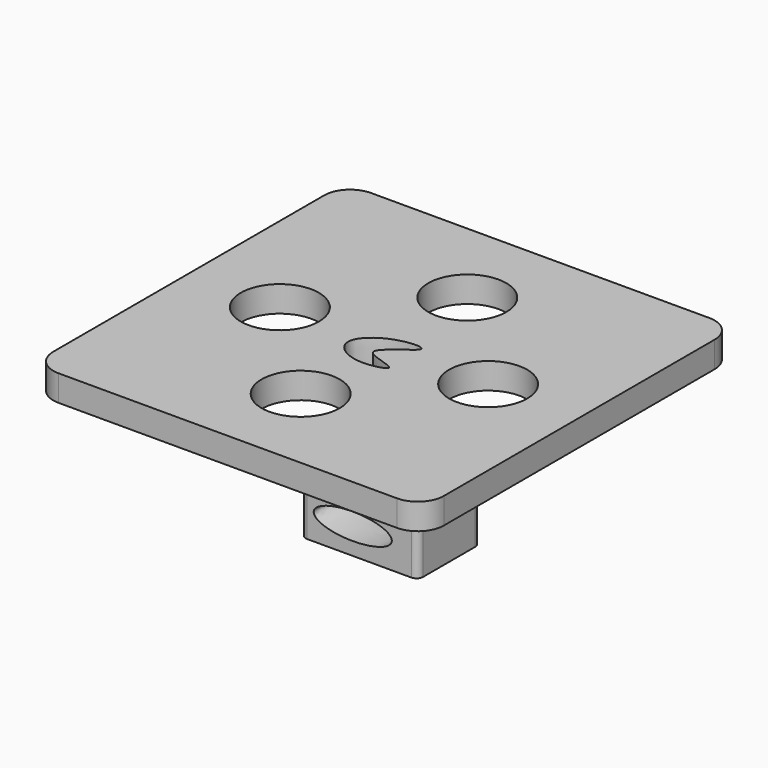
from build123d import *

# Parameters (mm, degrees)
F1_DEPTH       = 76.2
F3_DEPTH       = 76.2
F6_ANGLE_START = 45
F6_ANGLE       = 45
F8_DEPTH       = 63.5
F9_R           = 6.35
F11_DEPTH      = 25.4
F12_R          = 38.1
F13_DEPTH      = 25.4


with BuildPart() as f1:
    # F0 (on Front) → F1 (new body)
    with BuildSketch(Plane.XZ):
        Polygon((0, 76.2), (0, 0), (88.8306446588, 0), (101.6, 0), (114.3, 0), (114.3, 63.5), (101.6, 63.5), (101.6, 76.2), align=None)
    extrude(amount=F1_DEPTH)

    # F2 (on face) → F3 (cut, through all)
    with BuildSketch(Plane.XZ.offset(76.2)):
        with BuildLine():
            add(Edge.make_bspline(
                [(88.9, 25.4), (88.9, 47.3970452561), (31.75, 36.3985226281), (-25.4, 25.4), (31.75, 14.4014773719), (88.9, 3.4029547439), (88.9, 25.4)],
                knots=[0, 0, 0, 2.0943951024, 2.0943951024, 4.1887902048, 4.1887902048, 6.2831853072, 6.2831853072, 6.2831853072], degree=2, weights=[1, 0.5, 1, 0.5, 1, 0.5, 1]))
        make_face()
    extrude(amount=-F3_DEPTH, mode=Mode.SUBTRACT)

    # F5 (on offset) → F6 (revolve, cut)
    with BuildSketch(Plane.XZ.offset(38.1), mode=Mode.PRIVATE) as f6_sk:
        Polygon((6.35, 76.2), (6.35, 70.9394877579), (10.0697438789, 67.2197438789), (15.3302561211, 67.2197438789), (19.05, 70.9394877579), (19.05, 76.2), (15.3302561211, 79.9197438789), (10.0697438789, 79.9197438789), align=None)
    revolve(f6_sk.sketch.rotate(Axis((38.1, -38.1, 38.1), (0, 0, -1)), F6_ANGLE_START), axis=Axis((38.1, -38.1, 38.1), (0, 0, -1)), revolution_arc=F6_ANGLE, mode=Mode.SUBTRACT)

    # F7 (on face) → F8 (join)
    with BuildSketch(Plane.XY.offset(76.2)):
        with BuildLine():
            add(Edge.make_bspline(
                [(25.4, -50.8), (25.8926511047, -59.9529854849), (46.7650224338, -75.9649959371), (94.4797043393, -62.4150130403), (27.4951811657, -54.5063585346), (95.1955241162, -20.3703637934), (45.668122068, -21.5563633126), (24.8759871302, -41.0643429702), (25.4, -50.8)],
                knots=[0, 0, 0, 0, 0.1701961468, 0.3247489732, 0.4857105509, 0.6667412447, 0.8189693062, 1, 1, 1, 1], degree=3))
        make_face()
    extrude(amount=F8_DEPTH)

    # F9
    f9_edges = [f1.edges().sort_by_distance(p)[0] for p in [
        (0, -76.2, 38.1),
        (0, 0, 38.1),
        (114.3, -76.2, 31.75),
        (114.3, 0, 31.75),
    ]]
    fillet(f9_edges, radius=F9_R)


with BuildPart() as f11:
    # F10 (on face) → F11 (new body)
    with BuildSketch(Plane.XY.offset(139.7)):
        with BuildLine():
            Line((215.9, 152.4), (-114.3, 152.4))
            ThreePointArc((-114.3, 152.4), (-132.2605122421, 144.9605122421), (-139.7, 127))
            Line((-139.7, 127), (-139.7, -203.2))
            ThreePointArc((-139.7, -203.2), (-132.2605122421, -221.1605122421), (-114.3, -228.6))
            Line((-114.3, -228.6), (215.9, -228.6))
            ThreePointArc((215.9, -228.6), (233.8605122421, -221.1605122421), (241.3, -203.2))
            Line((241.3, -203.2), (241.3, 127))
            ThreePointArc((241.3, 127), (233.8605122421, 144.9605122421), (215.9, 152.4))
        make_face()
        with BuildLine():
            add(Edge.make_bspline(
                [(25.4, -50.8), (25.8926511047, -59.9529854849), (46.7650224338, -75.9649959371), (94.4797043393, -62.4150130403), (27.4951811657, -54.5063585346), (95.1955241162, -20.3703637934), (45.668122068, -21.5563633126), (24.8759871302, -41.0643429702), (25.4, -50.8)],
                knots=[0, 0, 0, 0, 0.1701961468, 0.3247489732, 0.4857105509, 0.6667412447, 0.8189693062, 1, 1, 1, 1], degree=3))
        make_face(mode=Mode.SUBTRACT)
    extrude(amount=F11_DEPTH)

    # F12 (on face) → F13 (cut, through all)
    with BuildSketch(Plane.XY.offset(165.1)):
        with Locations((-50.8, -38.1)):
            Circle(F12_R)
        with Locations((50.8, -139.7)):
            Circle(F12_R)
        with Locations((152.4, -38.1)):
            Circle(F12_R)
        with Locations((50.8, 63.5)):
            Circle(F12_R)
    extrude(amount=-F13_DEPTH, mode=Mode.SUBTRACT)


solid = Compound([f1.part, f11.part])
